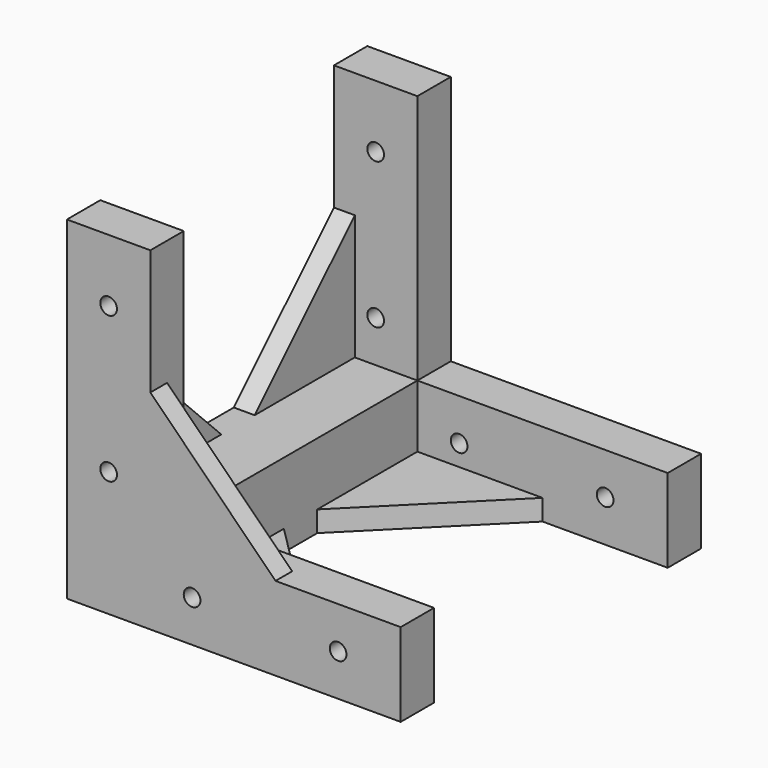
from build123d import *

# Parameters (mm, degrees)
F0_W      = 20
F0_H      = 20
F1_DEPTH  = 90
F2_W      = 20
F2_H      = 20
F2_W_2    = 60
F2_H_2    = 60
F3_DEPTH  = 10
F4_W      = 20
F4_H      = 60
F4_W_2    = 60
F4_H_2    = 20
F5_DEPTH  = 10
F6_R      = 2
F7_DEPTH  = 116.7
F9_DEPTH  = 5
F11_DEPTH = 5
F13_DEPTH = 5


with BuildPart() as f1:
    # F0 (on Front) → F1 (new body)
    with BuildSketch(Plane.XZ):
        with Locations((-10, 10)):
            Rectangle(F0_W, F0_H)
    extrude(amount=F1_DEPTH)

    # F2 (on face) → F3 (join)
    with BuildSketch(Plane.XZ.offset(90)):
        with Locations((-10, 10)):
            Rectangle(F2_W, F2_H)
        with Locations((30, 10)):
            Rectangle(F2_W_2, F2_H)
        with Locations((-10, 50)):
            Rectangle(F2_W, F2_H_2)
    extrude(amount=-F3_DEPTH)

    # F4 (on face) → F5 (join)
    with BuildSketch(Plane(origin=(0, 0, 0), x_dir=(-1, 0, 0), z_dir=(0, 1, 0))):
        with Locations((10, 50)):
            Rectangle(F4_W, F4_H)
        with Locations((-30, 10)):
            Rectangle(F4_W_2, F4_H_2)
    extrude(amount=-F5_DEPTH)

    # F6 (on face) → F7 (cut)
    with BuildSketch(Plane(origin=(0, 0, 0), x_dir=(-1, 0, 0), z_dir=(0, 1, 0))):
        with Locations((10, 65)):
            Circle(F6_R)
        with Locations((10, 30)):
            Circle(F6_R)
        with Locations((-45, 10)):
            Circle(F6_R)
        with Locations((-10, 10)):
            Circle(F6_R)
    extrude(amount=-F7_DEPTH, mode=Mode.SUBTRACT)

    # F8 (on face) → F9 (join)
    with BuildSketch(Plane.XZ.offset(90)):
        Polygon((0, 50), (0, 20), (30, 20), align=None)
    extrude(amount=-F9_DEPTH)

    # F10 (on face) → F11 (join)
    with BuildSketch(Plane(origin=(0, 0, 0), x_dir=(1, 0, 0), z_dir=(0, 0, -1))):
        Polygon((30, 80), (0, 80), (0, 50), align=None)
        Polygon((0, 10), (30, 10), (0, 40), align=None)
    extrude(amount=-F11_DEPTH)

    # F12 (on face) → F13 (join)
    with BuildSketch(Plane(origin=(-20, 0, 0), x_dir=(0, -1, 0), z_dir=(-1, 0, 0))):
        Polygon((10, 50), (10, 20), (40, 20), align=None)
        Polygon((80, 20), (80, 50), (50, 20), align=None)
    extrude(amount=-F13_DEPTH)


solid = f1.part
